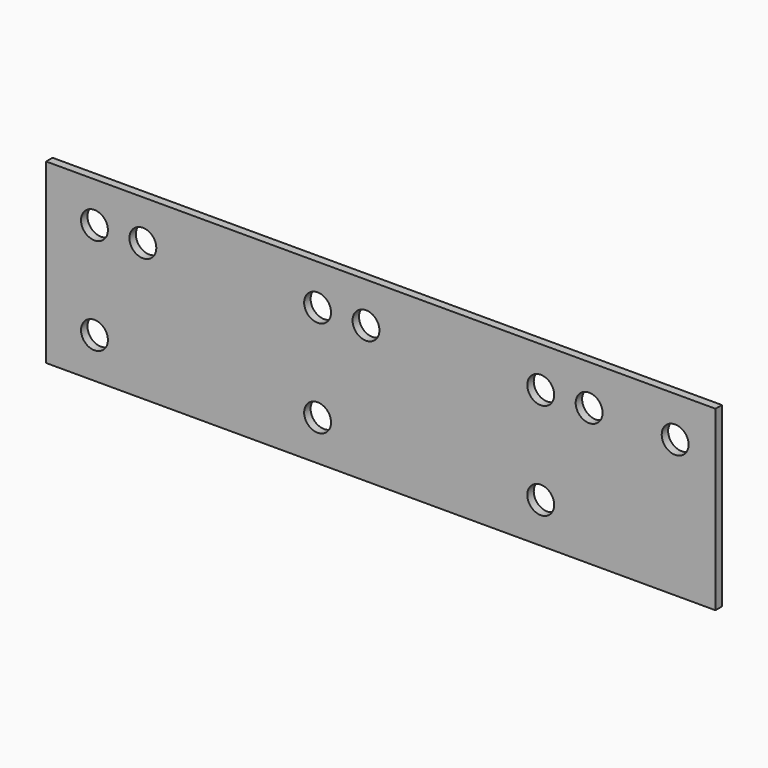
from build123d import *

# Parameters (mm, degrees)
F0_W     = 177.8
F0_H     = 139.7
F0_W_2   = 171.45
F2_DEPTH = 6.35
F3_D     = 21.1666666667
F3_DEPTH = 12.7
F3_TIP   = 6.359108218


with BuildPart() as f2:
    # F0 (on Front) → F2 (new body)
    with BuildSketch(Plane.XZ):
        with Locations((-176.7342258394, -41.7917792348)):
            Rectangle(F0_W, F0_H)
        with Locations((1.0657741606, -41.7917792348)):
            Rectangle(F0_W, F0_H)
        with Locations((175.6907741606, -41.7917792348)):
            Rectangle(F0_W_2, F0_H)
    extrude(amount=F2_DEPTH)

    # F3
    with Locations(Plane(origin=(0, 0, 0), x_dir=(1, 0, 0), z_dir=(0, 1, 0))):
        with Locations((-227.5342258394, 3.6917792348), (-189.4342258394, 3.6917792348), (-227.5342258394, 79.8917792348), (-51.850892506, 3.6917792348), (-13.750892506, 3.6917792348), (-51.850892506, 79.8917792348), (123.8324408273, 3.6917792348), (161.9324408273, 3.6917792348), (123.8324408273, 79.8917792348), (229.6657741606, 3.6917792348)):
            Hole(F3_D / 2, depth=F3_DEPTH)
            with Locations((0, 0, -(F3_DEPTH + F3_TIP / 2))):  # 118° drill point
                Cone(0, F3_D / 2, F3_TIP, mode=Mode.SUBTRACT)


solid = f2.part
